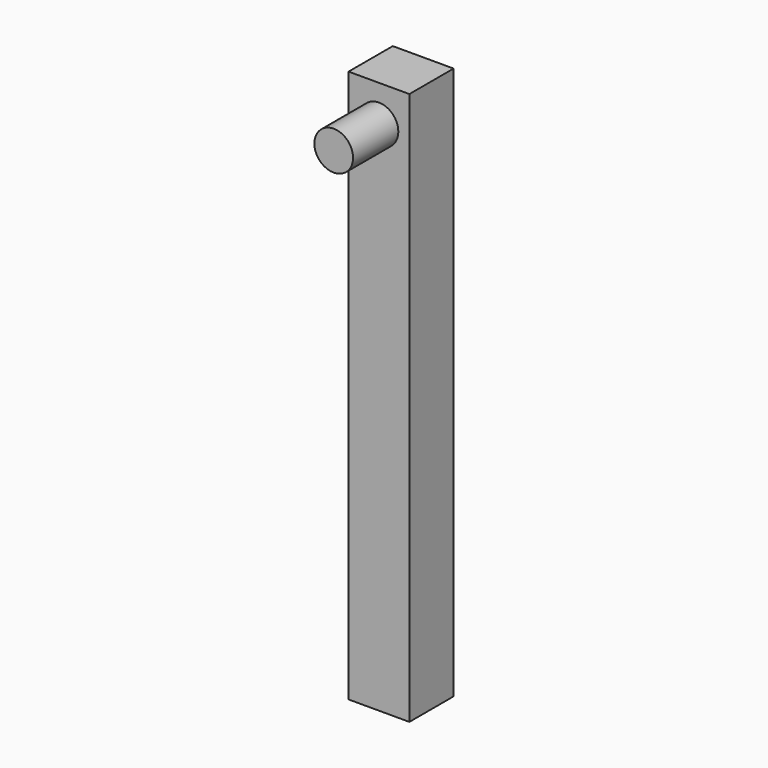
from build123d import *

# Parameters (mm, degrees)
F0_W     = 44
F0_H     = 40
F1_DEPTH = 400
F3_R     = 14
F4_DEPTH = 40.933333


with BuildPart() as f1:
    # F0 (on Top) → F1 (new body)
    with BuildSketch(Plane.XY):
        with Locations((0, 0.933333)):
            Rectangle(F0_W, F0_H)
    extrude(amount=F1_DEPTH)

    # F3 (on offset) → F4 (join, through all)
    with BuildSketch(Plane.XZ.offset(60)):
        with Locations((0, 373.435964)):
            Circle(F3_R)
    extrude(amount=-F4_DEPTH)


solid = f1.part
